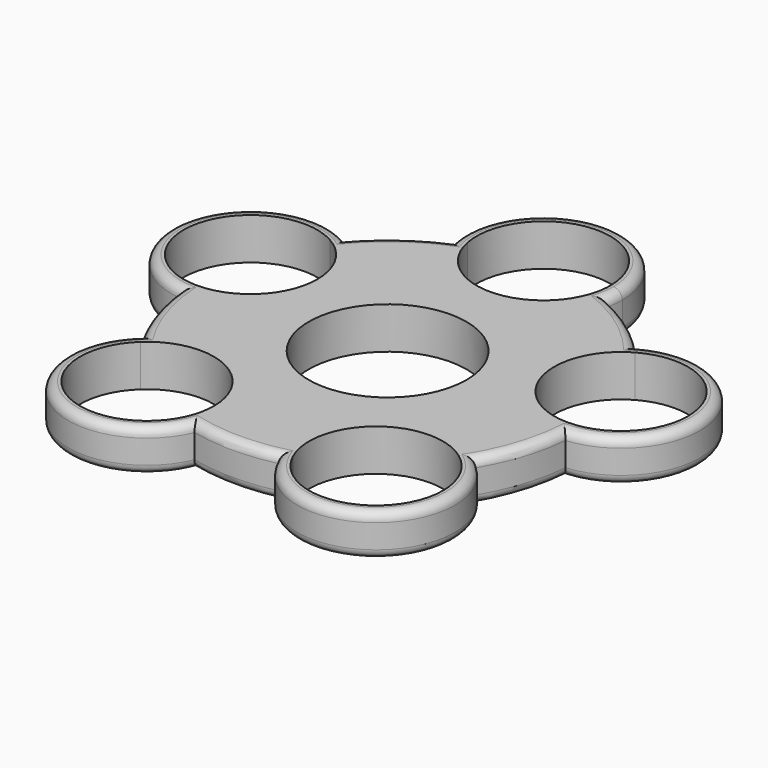
from build123d import *

# Parameters (mm, degrees)
F0_R     = 13.2
F1_DEPTH = 7
F2_R     = 1.5
F3_R     = 1.5


with BuildPart() as f1:
    # F0 (on Top) → F1 (new body)
    with BuildSketch(Plane.XY):
        with BuildLine():
            ThreePointArc((12.8739670447, 29.7058862228), (0, 19.4215289533), (-12.8739670447, 29.7058862228))
            ThreePointArc((-12.8739670447, 29.7058862228), (-19.0298932098, 26.1924009624), (-24.2737020627, 21.4234939243))
            ThreePointArc((-24.2737020627, 21.4234939243), (-24.9329861863, 20.6524793569), (-25.5677906957, 19.861187847))
            ThreePointArc((-25.5677906957, 19.861187847), (-21.3667651094, 15.7515934164), (-19.8249176826, 10.0806068291))
            ThreePointArc((-19.8249176826, 10.0806068291), (-23.5918999728, 1.702644802), (-32.3588904909, -1.0396681921))
            ThreePointArc((-32.3588904909, -1.0396681921), (-32.3104323345, -2.0529651998), (-32.2302512664, -3.0642465726))
            ThreePointArc((-32.2302512664, -3.0642465726), (-30.7910140157, -10.0046069207), (-27.8759399522, -16.4654388199))
            ThreePointArc((-27.8759399522, -16.4654388199), (-27.3463915221, -17.3307118859), (-26.7899939569, -18.1789693752))
            ThreePointArc((-26.7899939569, -18.1789693752), (-14.694166342, -16.1265271348), (-7.974453626, -26.3913713057))
            ThreePointArc((-7.974453626, -26.3913713057), (-8.2365734556, -28.800266774), (-9.0106638719, -31.0964088013))
            ThreePointArc((-9.0106638719, -31.0964088013), (-8.031986756, -31.3634483516), (-7.0454237039, -31.5996947546))
            ThreePointArc((-7.0454237039, -31.5996947546), (0, -32.3755880835), (7.0454237039, -31.5996947546))
            ThreePointArc((7.0454237039, -31.5996947546), (8.031986756, -31.3634483516), (9.0106638719, -31.0964088013))
            ThreePointArc((9.0106638719, -31.0964088013), (12.5912588003, -17.3303809687), (26.7899939569, -18.1789693752))
            ThreePointArc((26.7899939569, -18.1789693752), (27.3463915221, -17.3307118859), (27.8759399522, -16.4654388199))
            ThreePointArc((27.8759399522, -16.4654388199), (30.7910140157, -10.0046069207), (32.2302512664, -3.0642465726))
            ThreePointArc((32.2302512664, -3.0642465726), (32.3104323345, -2.0529651998), (32.3588904909, -1.0396681921))
            ThreePointArc((32.3588904909, -1.0396681921), (20.3730847001, 6.6196164921), (25.5677906957, 19.861187847))
            ThreePointArc((25.5677906957, 19.861187847), (24.9329861863, 20.6524793569), (24.2737020627, 21.4234939243))
            ThreePointArc((24.2737020627, 21.4234939243), (19.0298932098, 26.1924009624), (12.8739670447, 29.7058862228))
        make_face()
        Circle(F0_R, mode=Mode.SUBTRACT)
        with BuildLine():
            ThreePointArc((-10.9882302897, 30.4538585216), (-1.0889951229, 43.7684608012), (11.2, 32.6215289533))
            ThreePointArc((11.2, 32.6215289533), (11.1469318479, 31.5325338304), (10.9882302897, 30.4538585216))
            ThreePointArc((10.9882302897, 30.4538585216), (11.9369586179, 30.0946460804), (12.8739670447, 29.7058862228))
            ThreePointArc((12.8739670447, 29.7058862228), (13.1182385439, 31.1546214903), (13.2, 32.6215289533))
            ThreePointArc((13.2, 32.6215289533), (-1.466907463, 45.7397674972), (-12.8739670447, 29.7058862228))
            ThreePointArc((-12.8739670447, 29.7058862228), (-11.9369586179, 30.0946460804), (-10.9882302897, 30.4538585216))
        make_face()
        with BuildLine():
            ThreePointArc((32.2302512664, -3.0642465726), (43.5788636977, 14.1596311548), (24.2737020627, 21.4234939243))
            ThreePointArc((24.2737020627, 21.4234939243), (24.9329861863, 20.6524793569), (25.5677906957, 19.861187847))
            ThreePointArc((25.5677906957, 19.861187847), (36.6959042699, 19.7387594022), (42.2249176826, 10.0806068291))
            ThreePointArc((42.2249176826, 10.0806068291), (39.4028797096, 2.6475891193), (32.3588904909, -1.0396681921))
            ThreePointArc((32.3588904909, -1.0396681921), (32.3104323345, -2.0529651998), (32.2302512664, -3.0642465726))
        make_face()
        with BuildLine():
            ThreePointArc((7.0454237039, -31.5996947546), (26.9332189563, -37.0703956315), (27.8759399522, -16.4654388199))
            ThreePointArc((27.8759399522, -16.4654388199), (27.3463915221, -17.3307118859), (26.7899939569, -18.1789693752))
            ThreePointArc((26.7899939569, -18.1789693752), (29.4392977969, -21.9110840217), (30.374453626, -26.3913713057))
            ThreePointArc((30.374453626, -26.3913713057), (21.5833490943, -37.3292514762), (9.0106638719, -31.0964088013))
            ThreePointArc((9.0106638719, -31.0964088013), (8.031986756, -31.3634483516), (7.0454237039, -31.5996947546))
        make_face()
        with BuildLine():
            ThreePointArc((-26.7899939569, -18.1789693752), (-27.3463915221, -17.3307118859), (-27.8759399522, -16.4654388199))
            ThreePointArc((-27.8759399522, -16.4654388199), (-26.9332189563, -37.0703956315), (-7.0454237039, -31.5996947546))
            ThreePointArc((-7.0454237039, -31.5996947546), (-8.031986756, -31.3634483516), (-9.0106638719, -31.0964088013))
            ThreePointArc((-9.0106638719, -31.0964088013), (-25.7576484517, -35.4523616427), (-26.7899939569, -18.1789693752))
        make_face()
        with BuildLine():
            ThreePointArc((-25.5677906957, 19.861187847), (-24.9329861863, 20.6524793569), (-24.2737020627, 21.4234939243))
            ThreePointArc((-24.2737020627, 21.4234939243), (-43.5788636977, 14.1596311548), (-32.2302512664, -3.0642465726))
            ThreePointArc((-32.2302512664, -3.0642465726), (-32.3104323345, -2.0529651998), (-32.3588904909, -1.0396681921))
            ThreePointArc((-32.3588904909, -1.0396681921), (-41.6767506651, 13.5415971661), (-25.5677906957, 19.861187847))
        make_face()
        with BuildLine():
            ThreePointArc((10.9882302897, 30.4538585216), (0, 21.4215289533), (-10.9882302897, 30.4538585216))
            ThreePointArc((-10.9882302897, 30.4538585216), (-11.9369586179, 30.0946460804), (-12.8739670447, 29.7058862228))
            ThreePointArc((-12.8739670447, 29.7058862228), (0, 19.4215289533), (12.8739670447, 29.7058862228))
            ThreePointArc((12.8739670447, 29.7058862228), (11.9369586179, 30.0946460804), (10.9882302897, 30.4538585216))
        make_face()
    extrude(amount=F1_DEPTH)

    # F2
    f2_edges = [f1.edges().sort_by_distance(p)[0] for p in [
        (-19.029893, 26.192401, 7),
        (-43.578864, 14.159631, 7),
        (-30.791014, -10.004607, 7),
        (-26.933219, -37.070396, 7),
        (0, -32.375588, 7),
        (26.933219, -37.070396, 7),
        (30.791014, -10.004607, 7),
        (43.578864, 14.159631, 7),
        (19.029893, 26.192401, 7),
        (0, 45.821529, 7),
    ]]
    fillet(f2_edges, radius=F2_R)

    # F3
    f3_edges = [f1.edges().sort_by_distance(p)[0] for p in [
        (-26.933219, -37.070396, 0),
        (26.933219, -37.070396, 0),
        (43.578864, 14.159631, 0),
        (0, 45.821529, 0),
        (-43.578864, 14.159631, 0),
        (-19.029893, 26.192401, 0),
        (19.029893, 26.192401, 0),
        (30.791014, -10.004607, 0),
        (0, -32.375588, 0),
        (-30.791014, -10.004607, 0),
    ]]
    fillet(f3_edges, radius=F3_R)


solid = f1.part
